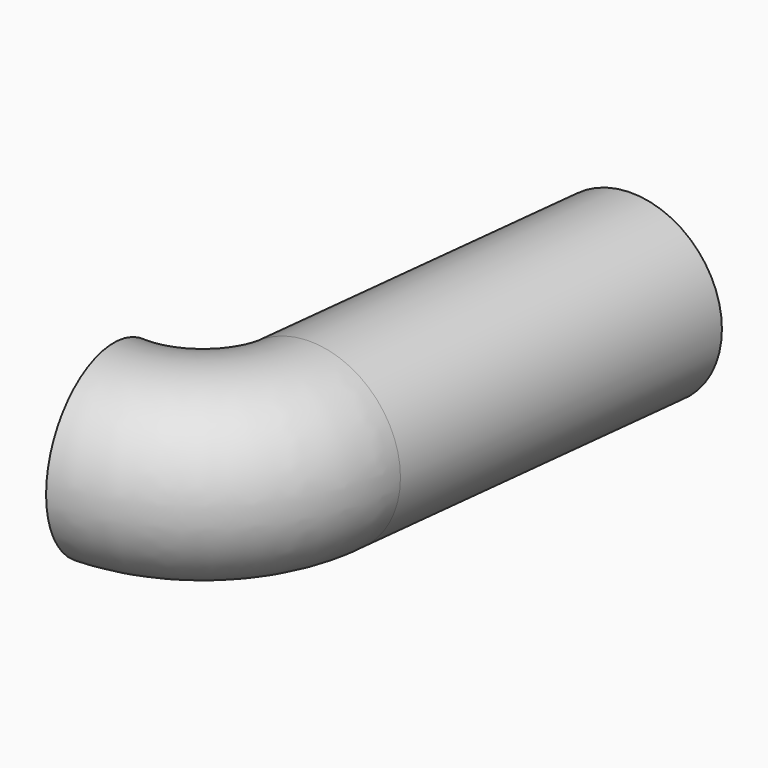
from build123d import *

# Parameters (mm, degrees)
F0_R   = 38.8747
F0_R_2 = 30.1625


with BuildPart() as f2:
    # F2: sweep along a path in F1
    with BuildLine(Plane.XY) as f2_path:
        ThreePointArc((-67.306074, -196.663952), (-33.424779, -183.714947), (-16.816281, -151.469379))
        Line((-16.816281, -151.469379), (0, 0))
    # F0 (on Front) → F2 (sweep)
    with BuildSketch(Plane.XZ):
        Circle(F0_R)
        Circle(F0_R_2, mode=Mode.SUBTRACT)
    sweep(path=f2_path.line)


solid = f2.part
